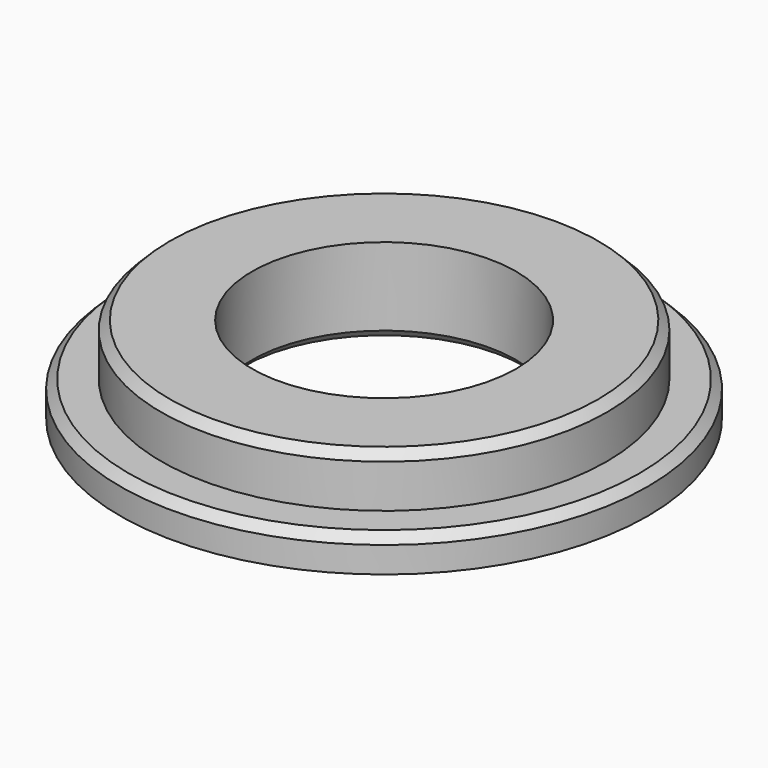
from build123d import *

# Parameters (mm, degrees)
F0_R     = 30.5
F0_R_2   = 15.25
F1_DEPTH = 4
F2_R     = 25.75
F2_R_2   = 15.25
F3_DEPTH = 6
F4_SIZE  = 1
F5_SIZE  = 1


with BuildPart() as f1:
    # F0 (on Top) → F1 (new body)
    with BuildSketch(Plane.XY):
        Circle(F0_R)
        Circle(F0_R_2, mode=Mode.SUBTRACT)
    extrude(amount=F1_DEPTH)

    # F2 (on face) → F3 (join)
    with BuildSketch(Plane.XY.offset(4)):
        Circle(F2_R)
        Circle(F2_R_2, mode=Mode.SUBTRACT)
    extrude(amount=F3_DEPTH)

    # F4
    f4_edges = [f1.edges().sort_by_distance(p)[0] for p in [
        (-25.75, 0, 10),
        (-30.5, 0, 4),
    ]]
    chamfer(f4_edges, length=F4_SIZE)

    # F5
    f5_edges = [f1.edges().sort_by_distance(p)[0] for p in [
        (-15.25, 0, 0),
    ]]
    chamfer(f5_edges, length=F5_SIZE)


solid = f1.part
